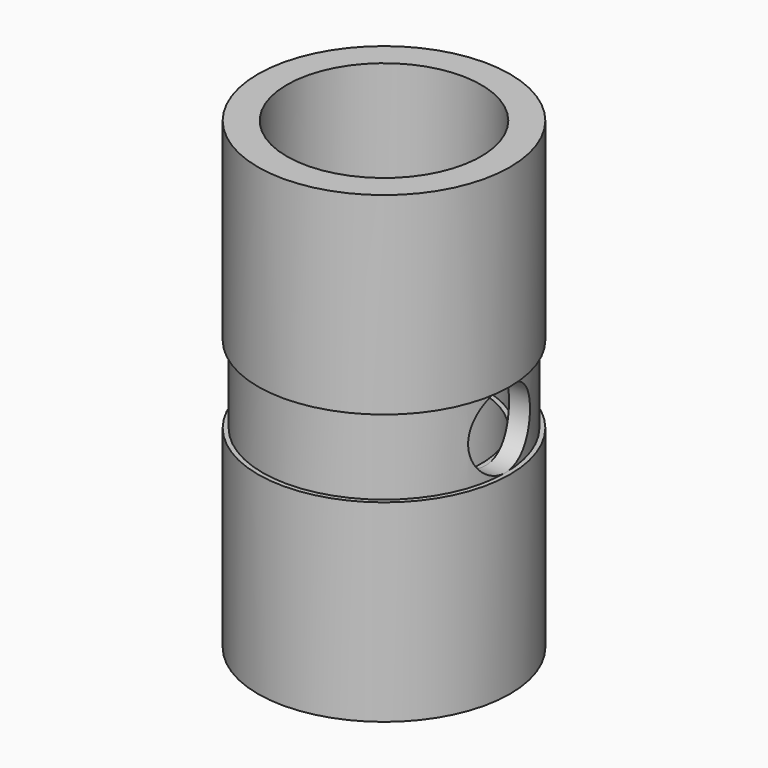
from build123d import *

# Parameters (mm, degrees)
F3_D = 12.7


with BuildPart() as f1:
    # F0 (on Front) → F1 (revolve)
    with BuildSketch(Plane.XZ):
        Polygon((4.7498, 0), (0, 0), (0, -31.75), (0.762, -31.75), (0.762, -44.45), (0, -44.45), (0, -76.2), (4.7498, -76.2), (4.7498, -44.45), (3.9878, -44.45), (3.9878, -31.75), (4.7498, -31.75), align=None)
    revolve(axis=Axis((20.701, 0, -38.1), (0, 0, -1)))

    # F3 (through all)
    with Locations(Plane(origin=(0, 0, 0), x_dir=(0, 1, 0), z_dir=(-1, 0, 0))):
        with Locations((0, 38.1)):
            Hole(F3_D / 2)


solid = f1.part
